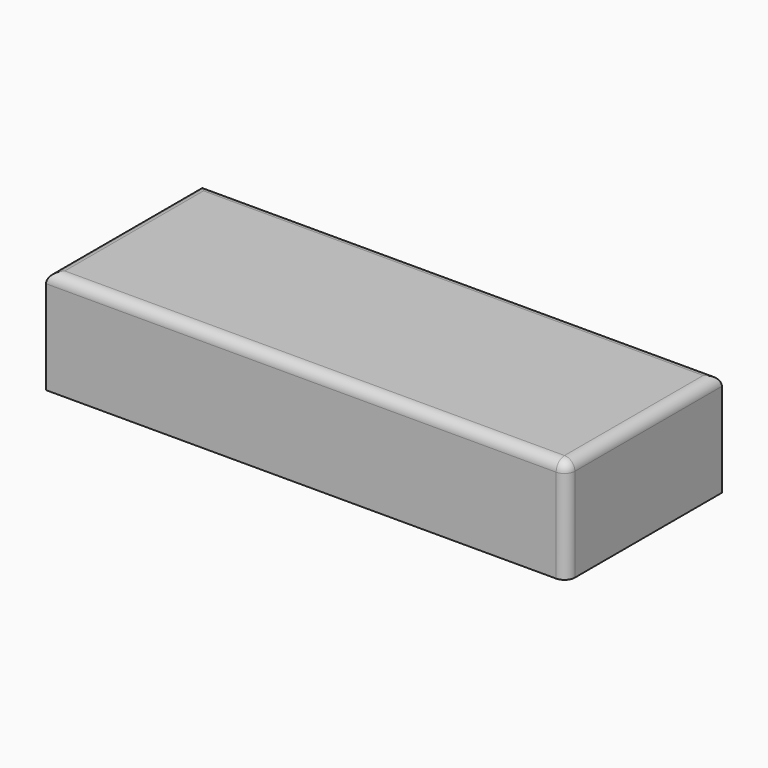
from build123d import *

# Parameters (mm, degrees)
F0_W     = 254
F0_H     = 94.778198
F1_DEPTH = 50.8
F2_R     = 5.08


with BuildPart() as f1:
    # F0 (on Top) → F1 (new body)
    with BuildSketch(Plane.XY):
        Rectangle(F0_W, F0_H)
    extrude(amount=F1_DEPTH)

    # F2
    f2_edges = [f1.edges().sort_by_distance(p)[0] for p in [
        (0, -47.389099, 50.8),
        (127, 0, 50.8),
        (0, 47.389099, 50.8),
        (-127, 0, 50.8),
        (127, -47.389099, 25.4),
    ]]
    fillet(f2_edges, radius=F2_R)


solid = f1.part
